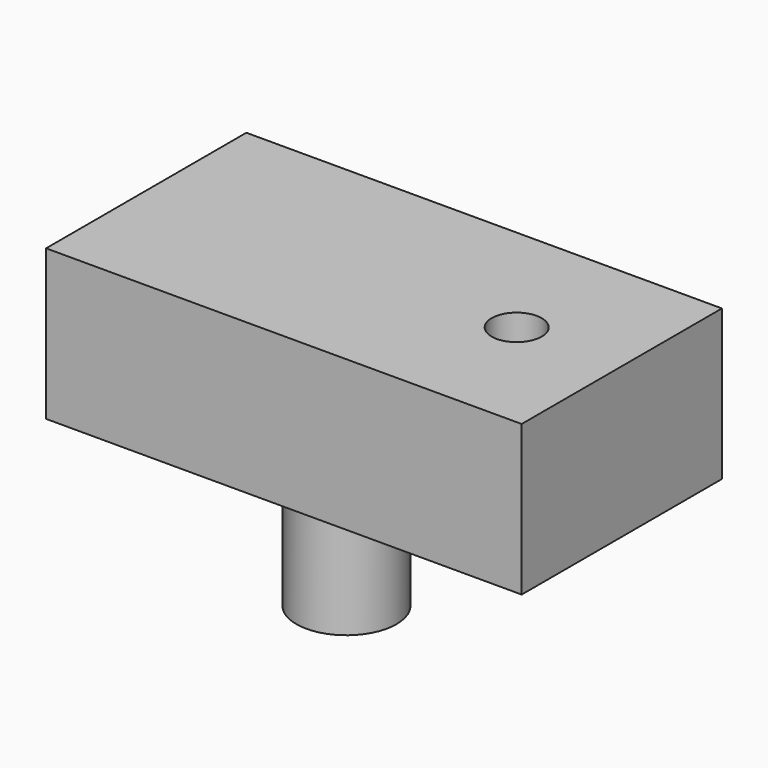
from build123d import *

# Parameters (mm, degrees)
F0_W     = 47.5
F0_H     = 25
F0_R     = 5
F0_R_2   = 2.5
F1_DEPTH = 15
F2_DEPTH = 15


with BuildPart() as f1:
    # F0 (on Top) → F1 (new body)
    with BuildSketch(Plane.XY):
        with Locations((49.75, 50)):
            Rectangle(F0_W, F0_H)
        with Locations((46, 50)):
            Circle(F0_R, mode=Mode.SUBTRACT)
        with Locations((63, 50)):
            Circle(F0_R_2, mode=Mode.SUBTRACT)
        with Locations((46, 50)):
            Circle(F0_R)
    extrude(amount=F1_DEPTH)

    # F0 (on Top) → F2 (join)
    with BuildSketch(Plane.XY):
        with Locations((46, 50)):
            Circle(F0_R)
    extrude(amount=-F2_DEPTH)


solid = f1.part
